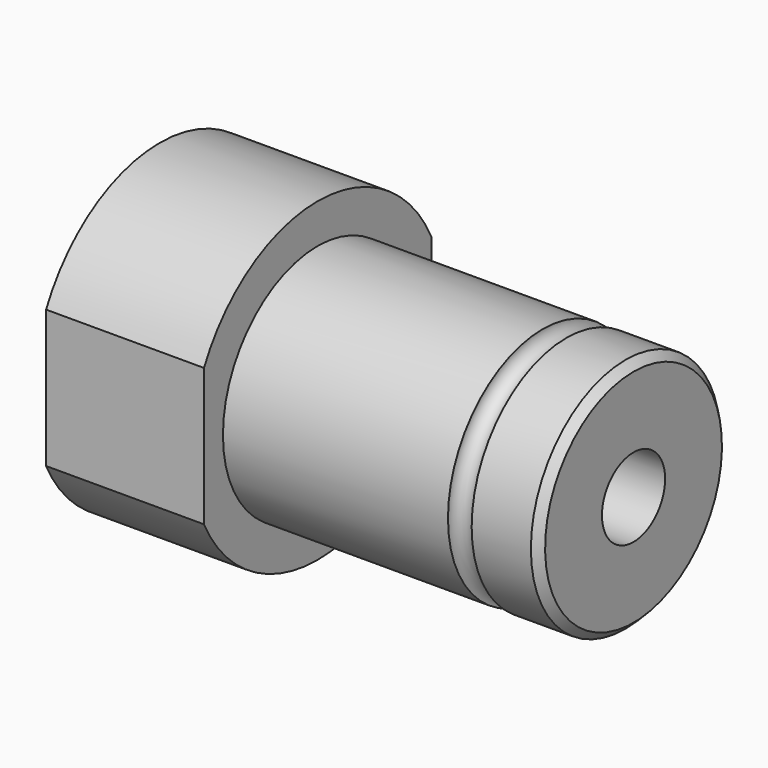
from build123d import *

# Parameters (mm, degrees)
F2_SIZE  = 1
F3_R     = 5
F4_DEPTH = 60.001
F6_DEPTH = 20


with BuildPart() as f1:
    # F0 (on Front) → F1 (revolve)
    with BuildSketch(Plane.XZ):
        with BuildLine():
            Line((0, 20), (0, 0))
            Line((0, 0), (60, 0))
            Line((60, 0), (60, 15))
            Line((60, 15), (51.5, 15))
            ThreePointArc((51.5, 15), (50, 13.5), (48.5, 15))
            Line((48.5, 15), (20, 15))
            Line((20, 15), (20, 20))
            Line((20, 20), (0, 20))
        make_face()
    revolve(axis=Axis((18.177086444, 0, 0), (1, 0, 0)))

    # F2
    f2_edges = [f1.edges().sort_by_distance(p)[0] for p in [
        (60, 0, -15),
    ]]
    chamfer(f2_edges, length=F2_SIZE)

    # F3 (on face) → F4 (cut, through all)
    with BuildSketch(Plane.YZ.offset(60)):
        Circle(F3_R)
    extrude(amount=-F4_DEPTH, mode=Mode.SUBTRACT)

    # F5 (on face) → F6 (cut, through all)
    with BuildSketch(Plane(origin=(0, 0, 0), x_dir=(0, -1, 0), z_dir=(-1, 0, 0))):
        with BuildLine():
            Line((-18, -8.7177978871), (-18, 8.7177978871))
            ThreePointArc((-18, 8.7177978871), (-20, 0), (-18, -8.7177978871))
        make_face()
        with BuildLine():
            ThreePointArc((20, 0), (19.4935886896, 4.472135955), (18, 8.7177978871))
            Line((18, 8.7177978871), (18, -8.7177978871))
            ThreePointArc((18, -8.7177978871), (19.4935886896, -4.472135955), (20, 0))
        make_face()
    extrude(amount=-F6_DEPTH, mode=Mode.SUBTRACT)


solid = f1.part
